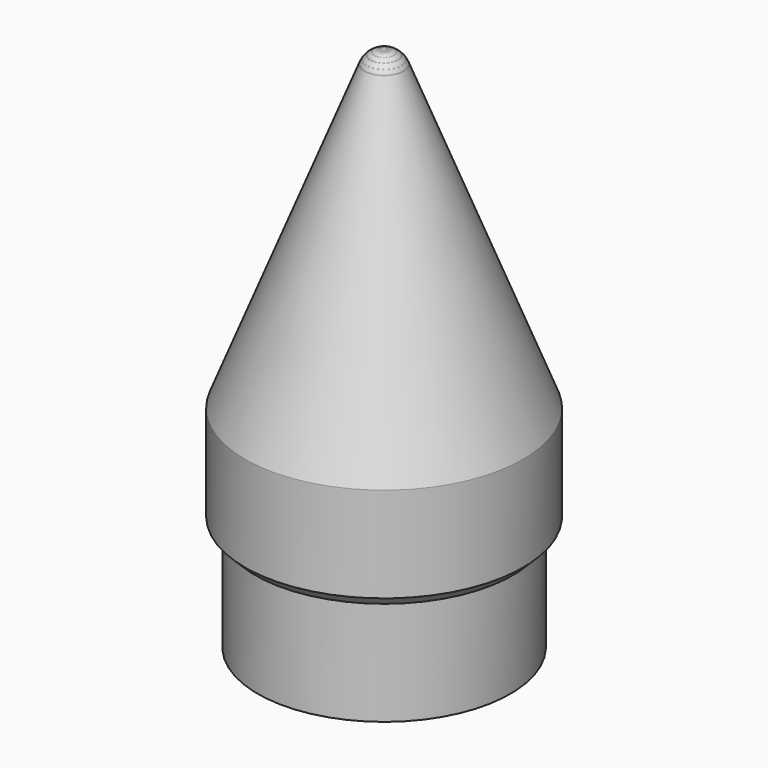
from build123d import *


with BuildPart() as body:
    # Sketch → Revolution (revolve)
    with BuildSketch(Plane.XZ):
        with BuildLine():
            Line((-10.8, 0), (-10.8, 10))
            Line((-10.8, 10), (-11.05, 10))
            Line((-12, 10.95), (-11.05, 10))
            Line((-12, 10.95), (-12, 20))
            Line((-12, 20), (-1.886048, 48.665449))
            ThreePointArc((0, 50), (-1.155228, 49.63262), (-1.886048, 48.665449))
            Line((0, 50), (0, 49))
            ThreePointArc((0, 49), (-0.577614, 48.81631), (-0.943024, 48.332725))
            Line((-0.943024, 48.332725), (-9.6, 23.796707))
            Line((-9.6, 23.796707), (-9.6, 1))
            Line((-9.6, 1), (0, 1))
            Line((0, 1), (0, 0))
            Line((0, 0), (-10.8, 0))
        make_face()
    revolve(axis=Axis((0, 0, 0), (0, 0, 1)))


with BuildPart() as body001:
    # Sketch001 → Revolution001 (revolve)
    with BuildSketch(Plane.XZ):
        with BuildLine():
            Line((-12, 0), (-12, 10))
            Line((-12, 10), (-12.25, 10))
            Line((-13.2, 10.95), (-12.25, 10))
            Line((-13.2, 10.95), (-13.2, 20))
            Line((-13.2, 20), (-1.860373, 48.734176))
            ThreePointArc((0, 50), (-1.125089, 49.653534), (-1.860373, 48.734176))
            Line((0, 50), (0, 49))
            ThreePointArc((0, 49), (-0.562544, 48.826767), (-0.930186, 48.367088))
            Line((-0.930186, 48.367088), (-10.8, 23.357363))
            Line((-10.8, 23.357363), (-10.8, 1))
            Line((-10.8, 1), (0, 1))
            Line((0, 1), (0, 0))
            Line((0, 0), (-12, 0))
        make_face()
    revolve(axis=Axis((0, 0, 0), (0, 0, 1)))


solid = Compound([body.part, body001.part])
